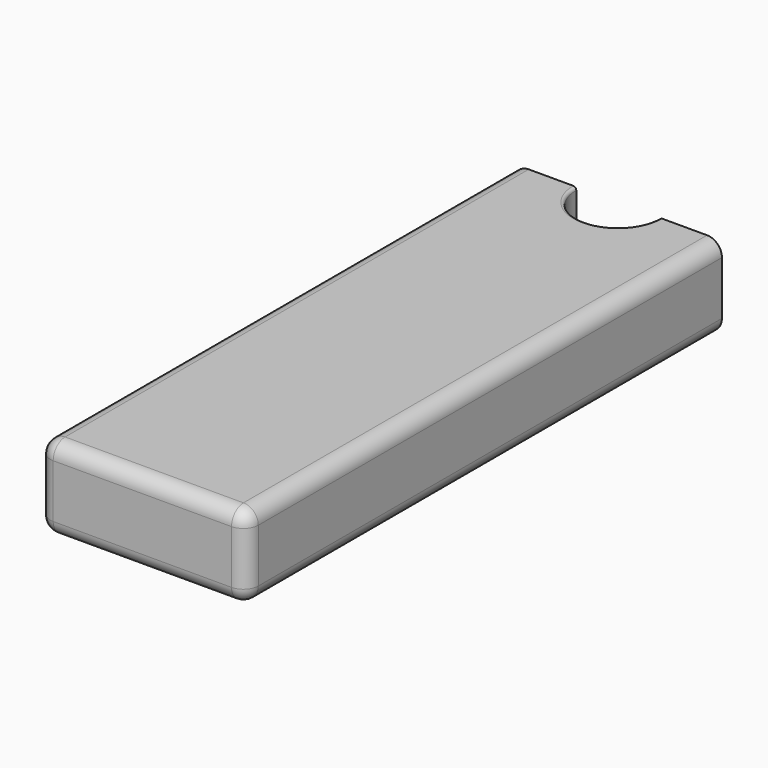
from build123d import *

# Parameters (mm, degrees)
F0_W     = 70
F0_H     = 28
F1_DEPTH = 200
F2_R     = 14
F3_DEPTH = 28.001
F4_R     = 5
F5_R     = 1


with BuildPart() as f1:
    # F0 (on Front) → F1 (new body)
    with BuildSketch(Plane.XZ):
        Rectangle(F0_W, F0_H)
    extrude(amount=F1_DEPTH)

    # F2 (on face) → F3 (cut, through all)
    with BuildSketch(Plane.XY.offset(14)):
        Circle(F2_R)
    extrude(amount=-F3_DEPTH, mode=Mode.SUBTRACT)

    # F4
    f4_edges = [f1.edges().sort_by_distance(p)[0] for p in [
        (-35, -100, 14),
        (35, -100, 14),
        (35, -100, -14),
        (-35, -100, -14),
        (0, -200, 14),
        (0, -200, -14),
        (35, -200, 0),
        (-35, -200, 0),
    ]]
    fillet(f4_edges, radius=F4_R)

    # F5
    f5_edges = [f1.edges().sort_by_distance(p)[0] for p in [
        (0, -14, -14),
        (0, -14, 14),
    ]]
    fillet(f5_edges, radius=F5_R)


solid = f1.part
